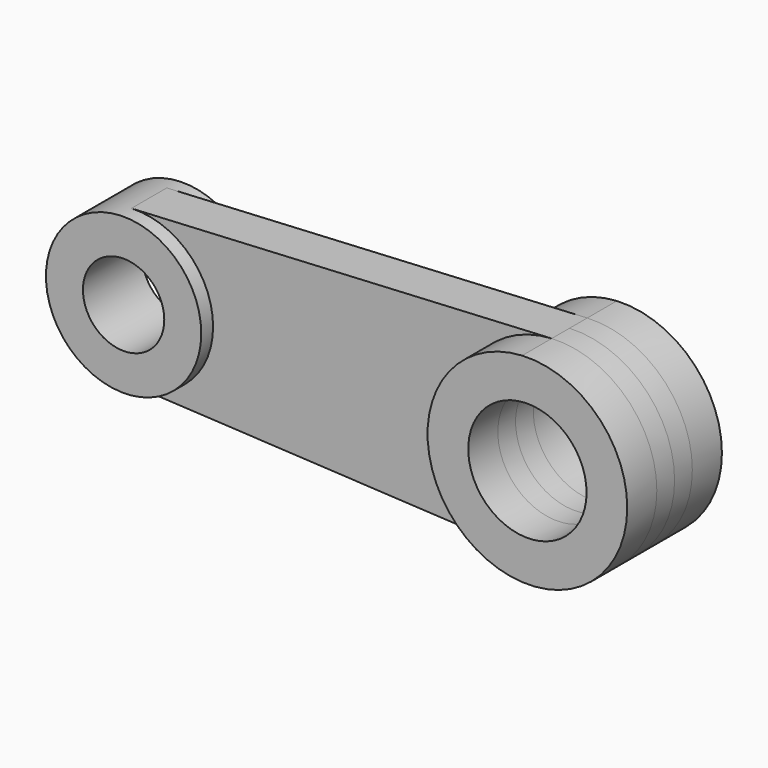
from build123d import *

# Parameters (mm, degrees)
F0_R     = 17.4625
F0_R_2   = 25.4
F1_DEPTH = 9.525
F2_DEPTH = 25.4
F3_DEPTH = 15.875


with BuildPart() as f1:
    # F0 (on Front) → F1 (new body, symmetric)
    with BuildSketch(Plane.XZ):
        with BuildLine():
            ThreePointArc((-145.4689772406, -33.2912941566), (-120.7699308937, -24.185564488), (-110.3768719775, 0))
            ThreePointArc((-110.3768719775, 0), (-120.7699308937, 24.185564488), (-145.4689772406, 33.2912941566))
            ThreePointArc((-145.4689772406, 33.2912941566), (-177.0518719775, 0), (-145.4689772406, -33.2912941566))
        make_face()
        with Locations((-143.7143719775, 0)):
            Circle(F0_R, mode=Mode.SUBTRACT)
        with BuildLine():
            ThreePointArc((-145.4689772406, 33.2912941566), (-120.7699308937, 24.185564488), (-110.3768719775, 0))
            ThreePointArc((-110.3768719775, 0), (-120.7699308937, -24.185564488), (-145.4689772406, -33.2912941566))
            Line((-145.4689772406, -33.2912941566), (35.0047069699, -42.803092487))
            ThreePointArc((35.0047069699, -42.803092487), (-5.6018719775, 0), (35.0047069699, 42.803092487))
            Line((35.0047069699, 42.803092487), (-145.4689772406, 33.2912941566))
        make_face()
        with BuildLine():
            ThreePointArc((80.1231280225, 0), (66.7606237016, 31.0957257703), (35.0047069699, 42.803092487))
            ThreePointArc((35.0047069699, 42.803092487), (-5.6018719775, 0), (35.0047069699, -42.803092487))
            ThreePointArc((35.0047069699, -42.803092487), (66.7606237016, -31.0957257703), (80.1231280225, 0))
        make_face()
        with Locations((37.2606280225, 0)):
            Circle(F0_R_2, mode=Mode.SUBTRACT)
    extrude(amount=F1_DEPTH, both=True)

    # F0 (on Front) → F2 (join, symmetric)
    with BuildSketch(Plane.XZ):
        with BuildLine():
            ThreePointArc((80.1231280225, 0), (66.7606237016, 31.0957257703), (35.0047069699, 42.803092487))
            ThreePointArc((35.0047069699, 42.803092487), (-5.6018719775, 0), (35.0047069699, -42.803092487))
            ThreePointArc((35.0047069699, -42.803092487), (66.7606237016, -31.0957257703), (80.1231280225, 0))
        make_face()
        with Locations((37.2606280225, 0)):
            Circle(F0_R_2, mode=Mode.SUBTRACT)
    extrude(amount=F2_DEPTH, both=True)

    # F0 (on Front) → F3 (join, symmetric)
    with BuildSketch(Plane.XZ):
        with BuildLine():
            ThreePointArc((-145.4689772406, -33.2912941566), (-120.7699308937, -24.185564488), (-110.3768719775, 0))
            ThreePointArc((-110.3768719775, 0), (-120.7699308937, 24.185564488), (-145.4689772406, 33.2912941566))
            ThreePointArc((-145.4689772406, 33.2912941566), (-177.0518719775, 0), (-145.4689772406, -33.2912941566))
        make_face()
        with Locations((-143.7143719775, 0)):
            Circle(F0_R, mode=Mode.SUBTRACT)
    extrude(amount=F3_DEPTH, both=True)


solid = f1.part
